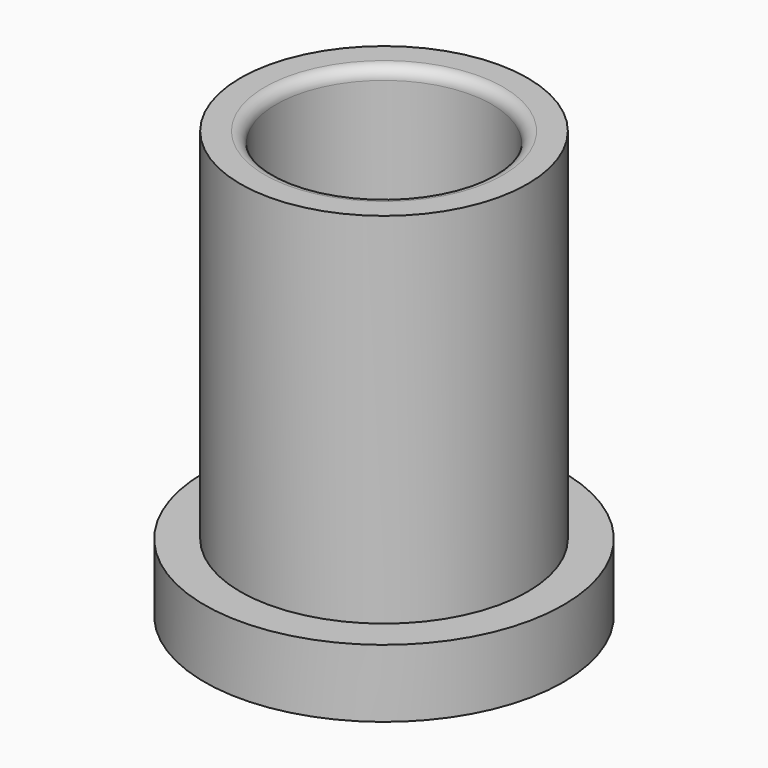
from build123d import *

# Parameters (mm, degrees)
F0_R     = 7.9375
F0_R_2   = 6.35
F0_R_3   = 4.7625
F1_DEPTH = 3
F2_DEPTH = 15.875
F3_R     = 0.508


with BuildPart() as f1:
    # F0 (on Top) → F1 (new body)
    with BuildSketch(Plane.XY):
        Circle(F0_R)
        Circle(F0_R_2, mode=Mode.SUBTRACT)
        Circle(F0_R_2)
        Circle(F0_R_3, mode=Mode.SUBTRACT)
    extrude(amount=-F1_DEPTH)

    # F0 (on Top) → F2 (join)
    with BuildSketch(Plane.XY):
        Circle(F0_R_2)
        Circle(F0_R_3, mode=Mode.SUBTRACT)
    extrude(amount=F2_DEPTH)

    # F3
    f3_edges = [f1.edges().sort_by_distance(p)[0] for p in [
        (-4.7625, 0, 15.875),
    ]]
    fillet(f3_edges, radius=F3_R)


solid = f1.part
